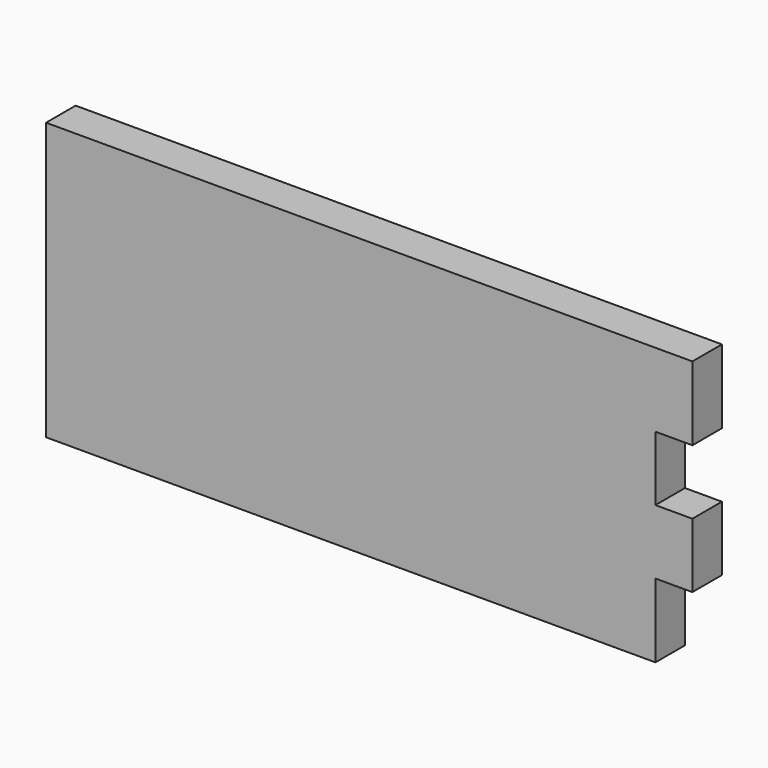
from build123d import *

# Parameters (mm, degrees)
F0_W     = 20
F0_H     = 40
F0_H_2   = 35
F1_DEPTH = 20


with BuildPart() as f1:
    # F0 (on Front) → F1 (new body)
    with BuildSketch(Plane.XZ):
        Polygon((118.989712, 78.679), (-211.010288, 78.679), (-211.010288, -71.321), (118.989712, -71.321), (118.989712, -31.321), (118.989712, 3.679), (118.989712, 38.679), align=None)
        with Locations((128.989712, 58.679)):
            Rectangle(F0_W, F0_H)
        with Locations((128.989712, -13.821)):
            Rectangle(F0_W, F0_H_2)
    extrude(amount=F1_DEPTH)


solid = f1.part
